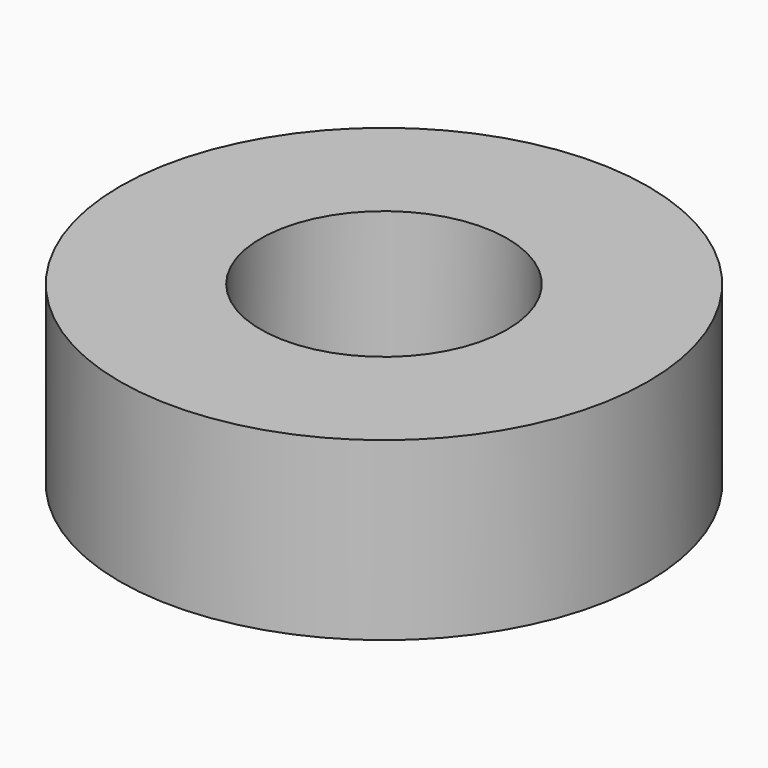
from build123d import *

# Parameters (mm, degrees)
SKETCH_R   = 15
SKETCH_R_2 = 7
PAD_DEPTH  = 10


with BuildPart() as part:
    # Sketch → Pad (new body)
    with BuildSketch(Plane.XY):
        Circle(SKETCH_R)
        Circle(SKETCH_R_2, mode=Mode.SUBTRACT)
    extrude(amount=PAD_DEPTH)


solid = part.part
